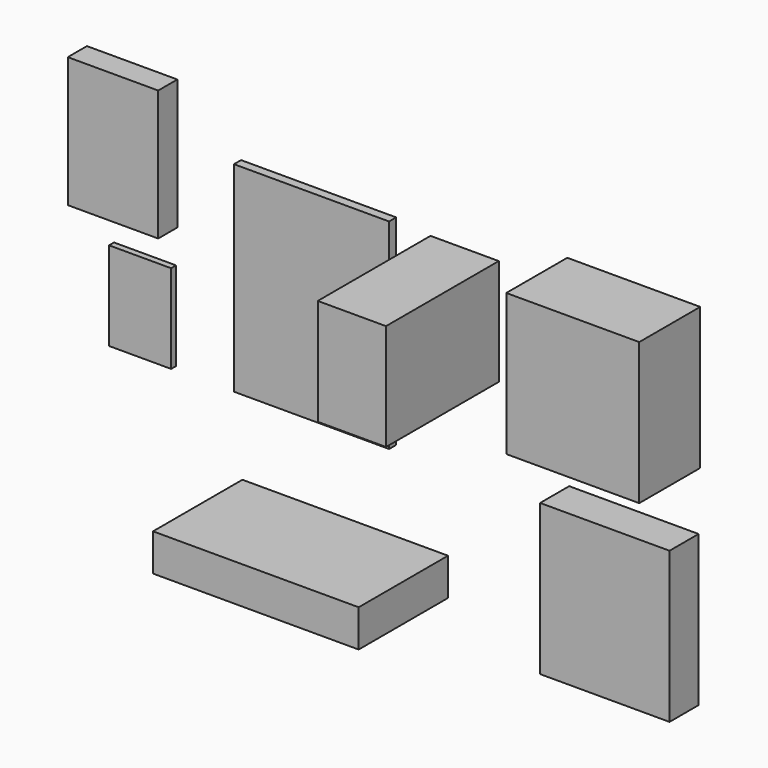
from build123d import *

# Parameters (mm, degrees)
F0_W     = 175
F0_H     = 226
F1_DEPTH = 10
F0_W_2   = 77
F0_H_2   = 120
F2_DEPTH = 159
F0_W_3   = 150
F0_H_3   = 160
F3_DEPTH = 86
F0_W_4   = 232
F0_H_4   = 42
F4_DEPTH = 126
F0_W_5   = 146
F0_H_5   = 170
F5_DEPTH = 41
F0_W_6   = 102
F0_H_6   = 147
F6_DEPTH = 27
F0_W_7   = 70
F0_H_7   = 100
F7_DEPTH = 7


with BuildPart() as f1:
    # F0 (on Front) → F1 (new body)
    with BuildSketch(Plane.XZ):
        with Locations((-87.066818, -6.20121)):
            Rectangle(F0_W, F0_H)
    extrude(amount=F1_DEPTH)


with BuildPart() as f2:
    # F0 (on Front) → F2 (new body)
    with BuildSketch(Plane.XZ):
        with Locations((77.635922, 41.047567)):
            Rectangle(F0_W_2, F0_H_2)
    extrude(amount=F2_DEPTH)


with BuildPart() as f3:
    # F0 (on Front) → F3 (new body)
    with BuildSketch(Plane.XZ):
        with Locations((268.423167, 49.457917)):
            Rectangle(F0_W_3, F0_H_3)
    extrude(amount=F3_DEPTH)


with BuildPart() as f4:
    # F0 (on Front) → F4 (new body)
    with BuildSketch(Plane.XZ):
        with Locations((-57.099607, -231.194196)):
            Rectangle(F0_W_4, F0_H_4)
    extrude(amount=F4_DEPTH)


with BuildPart() as f5:
    # F0 (on Front) → F5 (new body)
    with BuildSketch(Plane.XZ):
        with Locations((268.596263, -181.681254)):
            Rectangle(F0_W_5, F0_H_5)
    extrude(amount=F5_DEPTH)


with BuildPart() as f6:
    # F0 (on Front) → F6 (new body)
    with BuildSketch(Plane.XZ):
        with Locations((-297.475769, 89.96829)):
            Rectangle(F0_W_6, F0_H_6)
    extrude(amount=F6_DEPTH)


with BuildPart() as f7:
    # F0 (on Front) → F7 (new body)
    with BuildSketch(Plane.XZ):
        with Locations((-282.861646, -71.621013)):
            Rectangle(F0_W_7, F0_H_7)
    extrude(amount=F7_DEPTH)


solid = Compound([f1.part, f2.part, f3.part, f4.part, f5.part, f6.part, f7.part])
